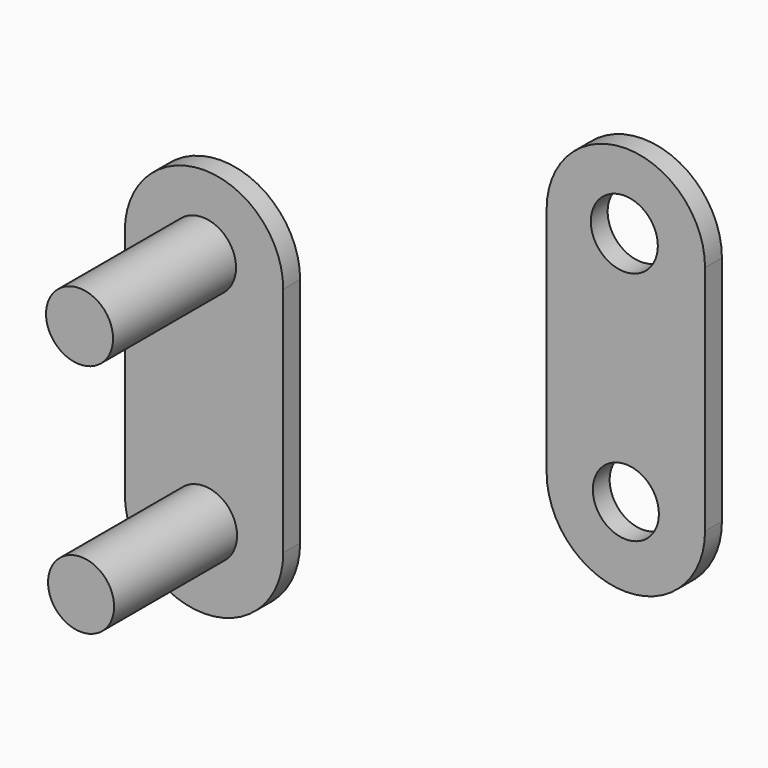
from build123d import *

# Parameters (mm, degrees)
F1_DEPTH = 1.143
F2_R     = 1.7907
F2_R_2   = 1.8161
F3_DEPTH = 8.3312
F5_DEPTH = 25.4


with BuildPart() as f1:
    # F0 (on Front) → F1 (new body)
    with BuildSketch(Plane.XZ):
        with BuildLine():
            Line((0, 16.8656), (0, 4.2926))
            ThreePointArc((0, 4.2926), (4.2926, 0), (8.5852, 4.2926))
            Line((8.5852, 4.2926), (8.5852, 16.8656))
            ThreePointArc((8.5852, 16.8656), (4.2926, 21.1582), (0, 16.8656))
        make_face()
    extrude(amount=F1_DEPTH)

    # F2 (on face) → F3 (join)
    with BuildSketch(Plane.XZ.offset(1.143)):
        with Locations((4.2926, 4.2926)):
            Circle(F2_R)
        with Locations((4.2095552199, 17.0617327094)):
            Circle(F2_R_2)
    extrude(amount=F3_DEPTH)


with BuildPart() as f4_1:
    # F4: copy of F1
    add(f1.part.moved(Location((12.7, 12.7, 0))))

    # F5 (cut): faces of the model
    f5_faces = [f4_1.faces().sort_by_distance(p)[0] for p in [
        (16.9095552199, 3.2258, 17.0617327094),
        (16.9926, 3.2258, 4.2926),
    ]]
    extrude(f5_faces, amount=-F5_DEPTH, mode=Mode.SUBTRACT)


solid = Compound([f1.part, f4_1.part])
